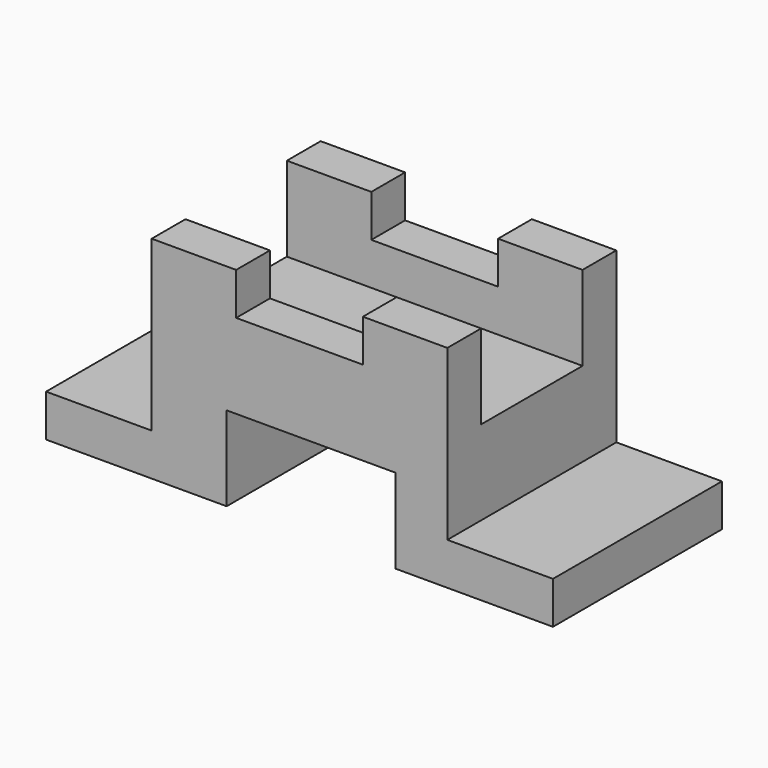
from build123d import *

# Parameters (mm, degrees)
F1_DEPTH = 50
F2_W     = 70
F2_H     = 30
F3_DEPTH = 20


with BuildPart() as f1:
    # F0 (on Front) → F1 (new body)
    with BuildSketch(Plane.XZ):
        Polygon((-37.746332, 30), (-57.746332, 30), (-57.746332, -10), (-82.746332, -10), (-82.746332, -20), (-40, -20), (-40, 0), (0, 0), (0, -20), (37.253668, -20), (37.253668, -10), (12.253668, -10), (12.253668, 30), (-7.746332, 30), (-7.746332, 20), (-37.746332, 20), align=None)
    extrude(amount=-F1_DEPTH)

    # F2 (on face) → F3 (cut)
    with BuildSketch(Plane.XY.offset(30)):
        with Locations((-22.746332, 25)):
            Rectangle(F2_W, F2_H)
    extrude(amount=-F3_DEPTH, mode=Mode.SUBTRACT)


solid = f1.part
